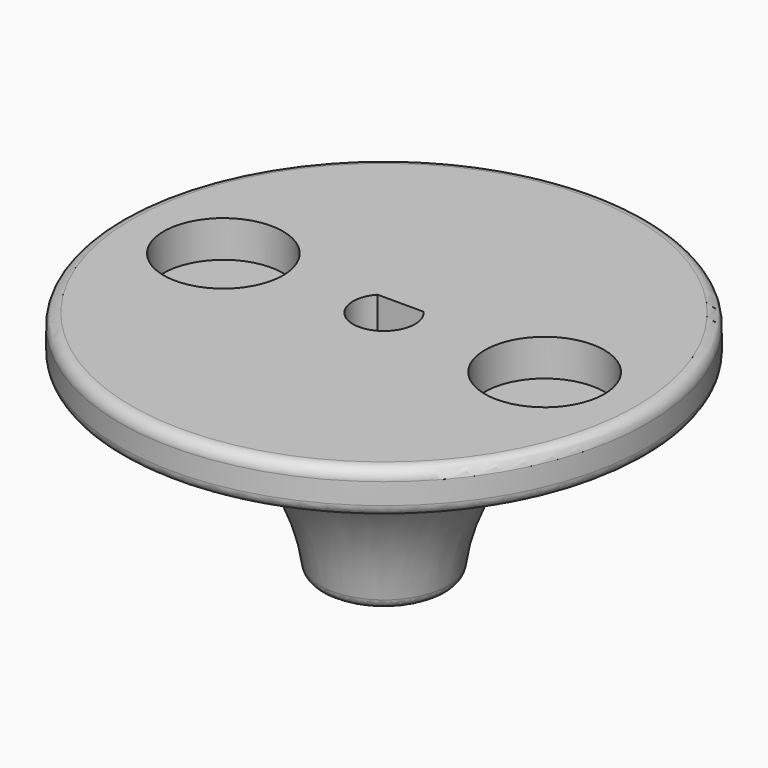
from build123d import *

# Parameters (mm, degrees)
POCKET062_DEPTH = 100
SKETCH120_R     = 5.2
POCKET063_DEPTH = 3.2
FILLET026_R     = 1


with BuildPart() as part:
    # Sketch118 → Revolution001 (revolve)
    with BuildSketch(Plane.XZ):
        with BuildLine():
            ThreePointArc((-5.5, -20), (-11.077951, -8.474729), (-23, -3.804598))
            Line((-23, -3.804598), (-23, 0))
            Line((-23, 0), (0, 0))
            Line((0, 0), (0, -20))
            Line((-5.5, -20), (0, -20))
        make_face()
    revolve(axis=Axis((0, 0, 0), (0, 0, 1)))

    # Sketch119 → Pocket062 (cut)
    with BuildSketch(Plane.XY):
        with BuildLine():
            ThreePointArc((-2.012461, 1.8), (0, -2.7), (2.012461, 1.8))
            Line((-2.012461, 1.8), (2.012461, 1.8))
        make_face()
    extrude(amount=-POCKET062_DEPTH, mode=Mode.SUBTRACT)

    # Sketch120 → Pocket063 (cut)
    with BuildSketch(Plane.XY):
        with Locations((-14, 0)):
            Circle(SKETCH120_R)
        with Locations((14, 0)):
            Circle(SKETCH120_R)
    extrude(amount=-POCKET063_DEPTH, mode=Mode.SUBTRACT)

    # Fillet026
    fillet026_edges = [part.edges().sort_by_distance(p)[0] for p in [
        (5.5, 0, -20),
        (23, 0, -3.804598),
        (23, 0, 0),
        (0, -2.7, -20),
        (0, 1.8, -20),
    ]]
    fillet(fillet026_edges, radius=FILLET026_R)


solid = part.part
